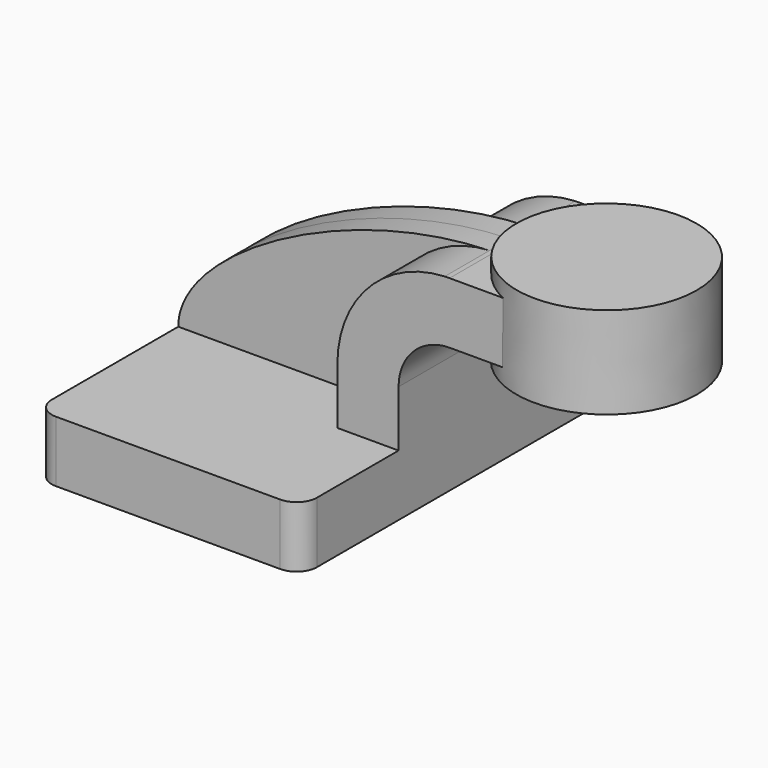
from build123d import *

# Parameters (mm, degrees)
F1_DEPTH = 63.5
F2_DEPTH = 25.4
F3_DEPTH = 7.9375
F5_R     = 6.35


with BuildPart() as f1:
    # F0 (on Front) → F1 (new body, symmetric)
    with BuildSketch(Plane.XZ):
        Polygon((41.275, -9.525), (41.275, 9.525), (22.225, 9.525), (-41.275, 9.525), (-41.275, -9.525), align=None)
    extrude(amount=F1_DEPTH, both=True)

    # F0 (on Front) → F2 (join, symmetric)
    with BuildSketch(Plane.XZ):
        with BuildLine():
            Line((22.225, 9.525), (41.275, 9.525))
            Line((41.275, 9.525), (41.275, 27.0002))
            ThreePointArc((41.275, 27.0002), (45.9246798487, 38.2255201513), (57.15, 42.8752))
            Line((57.15, 42.8752), (62.9785135388, 42.8752))
            Line((62.9785135388, 42.8752), (62.9785135388, 61.9252))
            Line((62.9785135388, 61.9252), (57.15, 61.9252))
            add(Edge.make_bspline(
                [(55.6188287698, 61.8916192842), (56.1299353722, 61.9062844797), (56.6403522443, 61.9174941178), (57.15, 61.9252)],
                knots=[110.2714101756, 110.2714101756, 110.2714101756, 110.2714101756, 111.5045361635, 111.5045361635, 111.5045361635, 111.5045361635], degree=3))
            ThreePointArc((55.6188287698, 61.8916192842), (31.9187517133, 51.1484863759), (22.225, 27.0002))
            Line((22.225, 27.0002), (22.225, 9.525))
        make_face()
        Polygon((62.9785135388, 61.9252), (62.9785135388, 42.8752), (85.6701698089, 42.8752), (85.7140573685, 61.9252), align=None)
    extrude(amount=F2_DEPTH, both=True)

    # F0 (on Front) → F3 (join, symmetric)
    with BuildSketch(Plane.XZ):
        with BuildLine():
            Line((-41.275, 9.525), (22.225, 9.525))
            Line((22.225, 9.525), (22.225, 27.0002))
            ThreePointArc((22.225, 27.0002), (31.9187517133, 51.1484863759), (55.6188287698, 61.8916192842))
            add(Edge.make_bspline(
                [(-41.275, 9.525), (-41.3074249169, 31.6357051074), (9.9134861294, 60.5801946583), (55.6188287698, 61.8916192842)],
                knots=[0, 0, 0, 0, 110.2714101756, 110.2714101756, 110.2714101756, 110.2714101756], degree=3))
        make_face()
    extrude(amount=F3_DEPTH, both=True)

    # F0 (on Front) → F4 (revolve)
    with BuildSketch(Plane.XZ):
        Polygon((85.7140573685, 61.9252), (85.6701698089, 42.8752), (85.6591686606, 38.1), (113.7785135388, 38.1), (113.7785135388, 66.675), (85.725, 66.675), align=None)
    revolve(axis=Axis((85.6920843303, 0, 52.3875), (0.0023038028, 0, 0.9999973462)))

    # F5
    f5_edges = [f1.edges().sort_by_distance(p)[0] for p in [
        (-41.275, -63.5, 0),
        (41.275, -63.5, 0),
        (-41.275, 63.5, 0),
        (41.275, 63.5, 0),
    ]]
    fillet(f5_edges, radius=F5_R)


solid = f1.part
